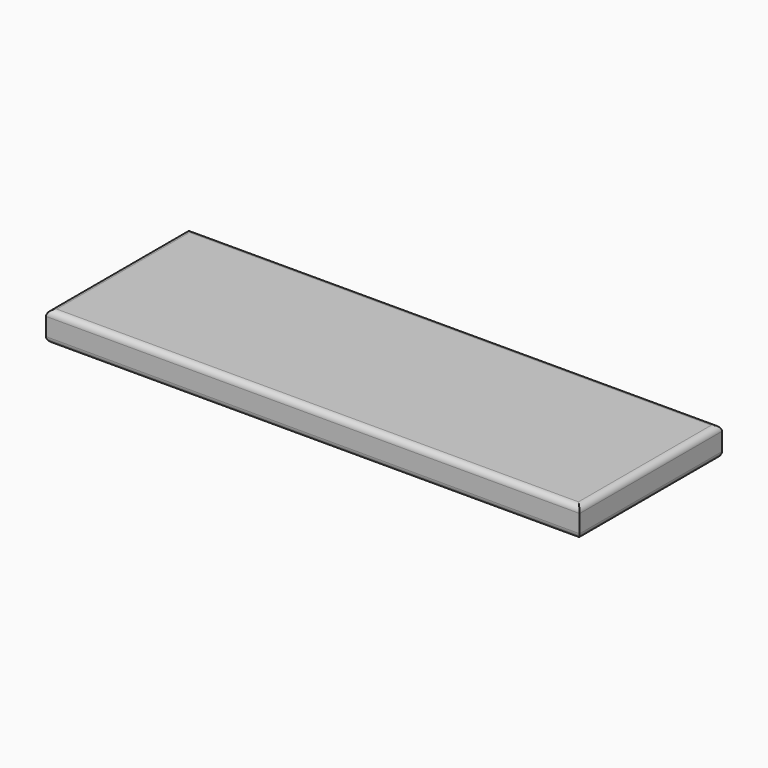
from build123d import *

# Parameters (mm, degrees)
F0_W     = 457.2
F0_H     = 152.4
F1_DEPTH = 25.4
F2_R     = 5.08
F3_R     = 5.08


with BuildPart() as f1:
    # F0 (on Top) → F1 (new body)
    with BuildSketch(Plane.XY):
        with Locations((228.6, -76.2)):
            Rectangle(F0_W, F0_H)
    extrude(amount=F1_DEPTH)

    # F2
    f2_edges = [f1.edges().sort_by_distance(p)[0] for p in [
        (0, -76.2, 25.4),
        (228.6, -152.4, 25.4),
        (228.6, 0, 25.4),
        (457.2, -76.2, 25.4),
    ]]
    fillet(f2_edges, radius=F2_R)

    # F3
    f3_edges = [f1.edges().sort_by_distance(p)[0] for p in [
        (228.6, -152.4, 0),
        (457.2, -76.2, 0),
        (228.6, 0, 0),
        (0, -76.2, 0),
    ]]
    fillet(f3_edges, radius=F3_R)


solid = f1.part
